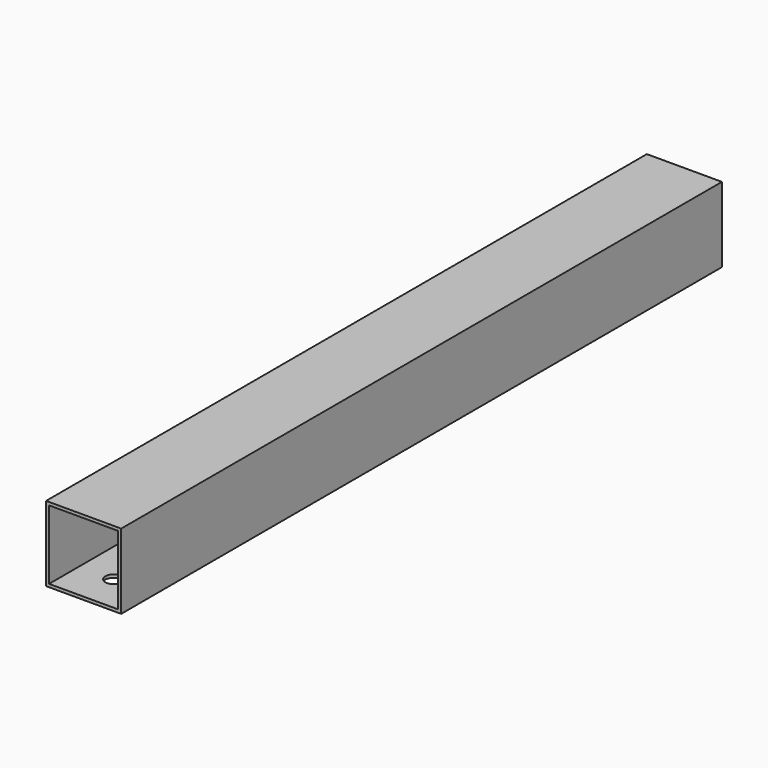
from build123d import *

# Parameters (mm, degrees)
F0_W     = 50
F0_H     = 50
F0_W_2   = 46
F0_H_2   = 46
F1_DEPTH = 250
F3_D     = 11
F3_DEPTH = 2
F3_TIP   = 3.3047334047


with BuildPart() as f1:
    # F0 (on Front) → F1 (new body, symmetric)
    with BuildSketch(Plane.XZ):
        Rectangle(F0_W, F0_H)
        Rectangle(F0_W_2, F0_H_2, mode=Mode.SUBTRACT)
    extrude(amount=F1_DEPTH, both=True)

    # F3
    with Locations(Plane(origin=(0, 0, -25), x_dir=(1, 0, 0), z_dir=(0, 0, -1))):
        with Locations((0, 225), (0, 125)):
            Hole(F3_D / 2, depth=F3_DEPTH)
            with Locations((0, 0, -(F3_DEPTH + F3_TIP / 2))):  # 118° drill point
                Cone(0, F3_D / 2, F3_TIP, mode=Mode.SUBTRACT)


solid = f1.part
